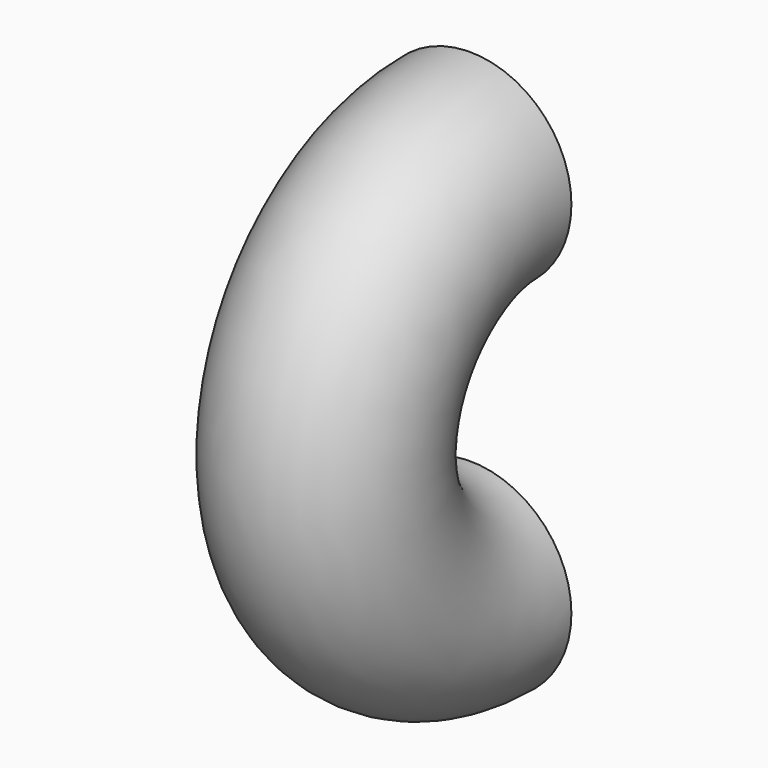
from build123d import *

# Parameters (mm, degrees)
F0_R          = 57.15
F0_R_2        = 50.8
F1_ANGLE_BACK = 90
F1_ANGLE      = 180


with BuildPart() as f1:
    # F0 (on Top) → F1 (revolve)
    with BuildSketch(Plane.XY, mode=Mode.PRIVATE) as f1_sk:
        with Locations((0, -101.6)):
            Circle(F0_R)
        with Locations((0, -101.6)):
            Circle(F0_R_2, mode=Mode.SUBTRACT)
    revolve(f1_sk.sketch.rotate(Axis((68.1504458189, 0, 0), (1, 0, 0)), -F1_ANGLE_BACK), axis=Axis((68.1504458189, 0, 0), (1, 0, 0)), revolution_arc=F1_ANGLE)


solid = f1.part
